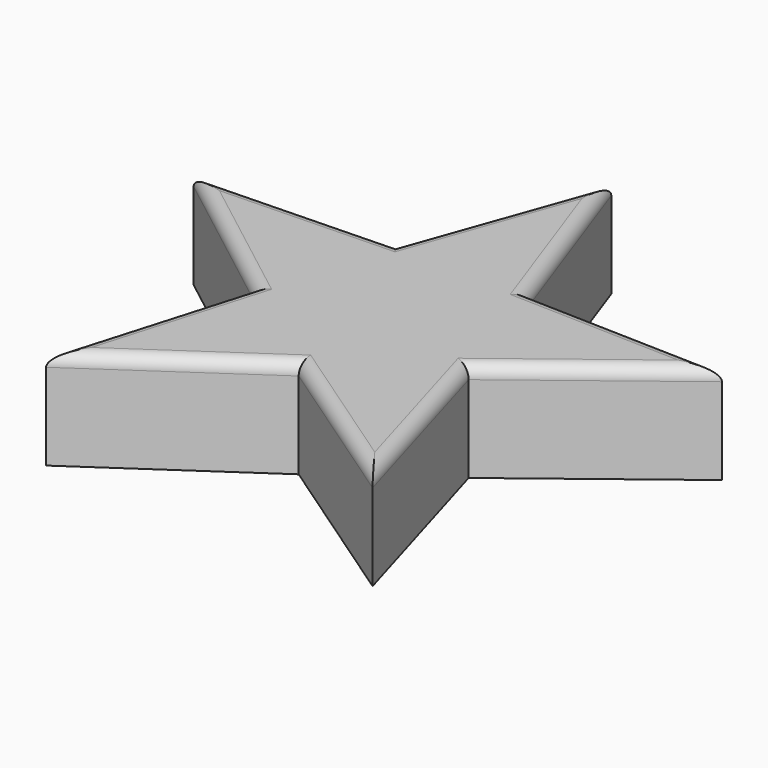
from build123d import *

# Parameters (mm, degrees)
F1_DEPTH = 25.4
F2_R     = 3.175


with BuildPart() as f1:
    # F0 (on Top) → F1 (new body)
    with BuildSketch(Plane.XY):
        Polygon((67.447804, 17.364409), (16.668251, 18.805589), (-0.394138, 66.654465), (-17.456526, 18.805589), (-68.236079, 17.364409), (-28.001662, -13.649003), (-42.322763, -62.388577), (-0.394138, -33.707043), (41.534488, -62.388577), (27.213387, -13.649003), align=None)
    extrude(amount=F1_DEPTH)

    # F2
    f2_edges = [f1.edges().sort_by_distance(p)[0] for p in [
        (42.058028, 18.084999, 25.4),
        (8.137057, 42.730027, 25.4),
        (-8.925332, 42.730027, 25.4),
        (-42.846303, 18.084999, 25.4),
        (-48.118871, 1.857703, 25.4),
        (-35.162213, -38.01879, 25.4),
        (-21.35845, -48.04781, 25.4),
        (20.570175, -48.04781, 25.4),
        (34.373938, -38.01879, 25.4),
        (47.330596, 1.857703, 25.4),
    ]]
    fillet(f2_edges, radius=F2_R)


solid = f1.part
